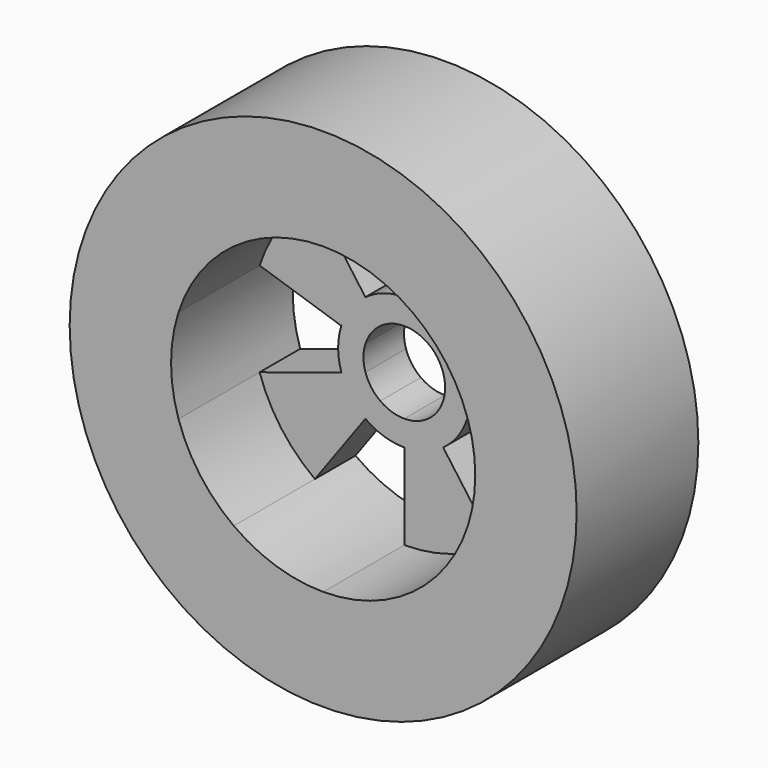
from build123d import *

# Parameters (mm, degrees)
F0_R     = 50
F1_DEPTH = 30
F2_DEPTH = 10


with BuildPart() as f1:
    # F0 (on Front) → F1 (new body)
    with BuildSketch(Plane.XZ):
        Circle(F0_R)
        with BuildLine():
            ThreePointArc((28.5316954889, 9.2705098312), (29.6306502179, 4.6930339512), (30, 0))
            ThreePointArc((30, 0), (29.6306502179, -4.6930339512), (28.5316954889, -9.2705098312))
            ThreePointArc((28.5316954889, -9.2705098312), (24.2705098312, -17.6335575688), (17.6335575688, -24.2705098312))
            ThreePointArc((17.6335575688, -24.2705098312), (9.2705098312, -28.5316954889), (0, -30))
            ThreePointArc((0, -30), (-9.2705098312, -28.5316954889), (-17.6335575688, -24.2705098312))
            ThreePointArc((-17.6335575688, -24.2705098312), (-24.2705098312, -17.6335575688), (-28.5316954889, -9.2705098312))
            ThreePointArc((-28.5316954889, -9.2705098312), (-30, 0), (-28.5316954889, 9.2705098312))
            ThreePointArc((-28.5316954889, 9.2705098312), (-24.2705098312, 17.6335575688), (-17.6335575688, 24.2705098312))
            ThreePointArc((-17.6335575688, 24.2705098312), (-9.2705098312, 28.5316954889), (0, 30))
            ThreePointArc((0, 30), (9.2705098312, 28.5316954889), (17.6335575688, 24.2705098312))
            ThreePointArc((17.6335575688, 24.2705098312), (24.2705098312, 17.6335575688), (28.5316954889, 9.2705098312))
        make_face(mode=Mode.SUBTRACT)
    extrude(amount=F1_DEPTH)

    # F0 (on Front) → F2 (join)
    with BuildSketch(Plane.XZ):
        with BuildLine():
            Line((-7.6705975424, 10.5576717766), (-17.6335575688, 24.2705098312))
            ThreePointArc((-17.6335575688, 24.2705098312), (-24.2705098312, 17.6335575688), (-28.5316954889, 9.2705098312))
            Line((-28.5316954889, 9.2705098312), (-12.4112875377, 4.0326717766))
            ThreePointArc((-12.4112875377, 4.0326717766), (-10.5576717766, 7.6705975424), (-7.6705975424, 10.5576717766))
        make_face()
        with BuildLine():
            Line((-4.731671281, 6.5125868047), (-7.6705975424, 10.5576717766))
            ThreePointArc((-7.6705975424, 10.5576717766), (-10.5576717766, 7.6705975424), (-12.4112875377, 4.0326717766))
            Line((-12.4112875377, 4.0326717766), (-7.6560049562, 2.4875868047))
            ThreePointArc((-7.6560049562, 2.4875868047), (-6.5125868047, 4.731671281), (-4.731671281, 6.5125868047))
        make_face()
        with BuildLine():
            Line((0, 8.05), (0, 13.05))
            ThreePointArc((0, 13.05), (-4.0326717766, 12.4112875377), (-7.6705975424, 10.5576717766))
            Line((-7.6705975424, 10.5576717766), (-4.731671281, 6.5125868047))
            ThreePointArc((-4.731671281, 6.5125868047), (-2.4875868047, 7.6560049562), (0, 8.05))
        make_face()
        with BuildLine():
            Line((4.731671281, 6.5125868047), (7.6705975424, 10.5576717766))
            ThreePointArc((7.6705975424, 10.5576717766), (4.0326717766, 12.4112875377), (0, 13.05))
            Line((0, 13.05), (0, 8.05))
            ThreePointArc((0, 8.05), (2.4875868047, 7.6560049562), (4.731671281, 6.5125868047))
        make_face()
        with BuildLine():
            Line((7.6560049562, 2.4875868047), (12.4112875377, 4.0326717766))
            ThreePointArc((12.4112875377, 4.0326717766), (10.5576717766, 7.6705975424), (7.6705975424, 10.5576717766))
            Line((7.6705975424, 10.5576717766), (4.731671281, 6.5125868047))
            ThreePointArc((4.731671281, 6.5125868047), (6.5125868047, 4.731671281), (7.6560049562, 2.4875868047))
        make_face()
        with BuildLine():
            ThreePointArc((13.05, 0), (12.8893328448, 2.0414697688), (12.4112875377, 4.0326717766))
            Line((12.4112875377, 4.0326717766), (7.6560049562, 2.4875868047))
            ThreePointArc((7.6560049562, 2.4875868047), (7.9508911418, 1.2592974436), (8.05, 0))
            ThreePointArc((8.05, 0), (7.9508911418, -1.2592974436), (7.6560049562, -2.4875868047))
            Line((7.6560049562, -2.4875868047), (12.4112875377, -4.0326717766))
            ThreePointArc((12.4112875377, -4.0326717766), (12.8893328448, -2.0414697688), (13.05, 0))
        make_face()
        with BuildLine():
            ThreePointArc((7.6705975424, -10.5576717766), (10.5576717766, -7.6705975424), (12.4112875377, -4.0326717766))
            Line((12.4112875377, -4.0326717766), (7.6560049562, -2.4875868047))
            ThreePointArc((7.6560049562, -2.4875868047), (6.5125868047, -4.731671281), (4.731671281, -6.5125868047))
            Line((4.731671281, -6.5125868047), (7.6705975424, -10.5576717766))
        make_face()
        with BuildLine():
            ThreePointArc((0, -13.05), (4.0326717766, -12.4112875377), (7.6705975424, -10.5576717766))
            Line((7.6705975424, -10.5576717766), (4.731671281, -6.5125868047))
            ThreePointArc((4.731671281, -6.5125868047), (2.4875868047, -7.6560049562), (0, -8.05))
            Line((0, -8.05), (0, -13.05))
        make_face()
        with BuildLine():
            ThreePointArc((-7.6705975424, -10.5576717766), (-4.0326717766, -12.4112875377), (0, -13.05))
            Line((0, -13.05), (0, -8.05))
            ThreePointArc((0, -8.05), (-2.4875868047, -7.6560049562), (-4.731671281, -6.5125868047))
            Line((-4.731671281, -6.5125868047), (-7.6705975424, -10.5576717766))
        make_face()
        with BuildLine():
            ThreePointArc((-12.4112875377, -4.0326717766), (-10.5576717766, -7.6705975424), (-7.6705975424, -10.5576717766))
            Line((-7.6705975424, -10.5576717766), (-4.731671281, -6.5125868047))
            ThreePointArc((-4.731671281, -6.5125868047), (-6.5125868047, -4.731671281), (-7.6560049562, -2.4875868047))
            Line((-7.6560049562, -2.4875868047), (-12.4112875377, -4.0326717766))
        make_face()
        with BuildLine():
            Line((-7.6560049562, 2.4875868047), (-12.4112875377, 4.0326717766))
            ThreePointArc((-12.4112875377, 4.0326717766), (-13.05, 0), (-12.4112875377, -4.0326717766))
            Line((-12.4112875377, -4.0326717766), (-7.6560049562, -2.4875868047))
            ThreePointArc((-7.6560049562, -2.4875868047), (-8.05, 0), (-7.6560049562, 2.4875868047))
        make_face()
        with BuildLine():
            ThreePointArc((-28.5316954889, -9.2705098312), (-24.2705098312, -17.6335575688), (-17.6335575688, -24.2705098312))
            Line((-17.6335575688, -24.2705098312), (-7.6705975424, -10.5576717766))
            ThreePointArc((-7.6705975424, -10.5576717766), (-10.5576717766, -7.6705975424), (-12.4112875377, -4.0326717766))
            Line((-12.4112875377, -4.0326717766), (-28.5316954889, -9.2705098312))
        make_face()
        with BuildLine():
            ThreePointArc((0, -30), (9.2705098312, -28.5316954889), (17.6335575688, -24.2705098312))
            Line((17.6335575688, -24.2705098312), (7.6705975424, -10.5576717766))
            ThreePointArc((7.6705975424, -10.5576717766), (4.0326717766, -12.4112875377), (0, -13.05))
            Line((0, -13.05), (0, -30))
        make_face()
        with BuildLine():
            ThreePointArc((28.5316954889, -9.2705098312), (29.6306502179, -4.6930339512), (30, 0))
            ThreePointArc((30, 0), (29.6306502179, 4.6930339512), (28.5316954889, 9.2705098312))
            Line((28.5316954889, 9.2705098312), (12.4112875377, 4.0326717766))
            ThreePointArc((12.4112875377, 4.0326717766), (12.8893328448, 2.0414697688), (13.05, 0))
            ThreePointArc((13.05, 0), (12.8893328448, -2.0414697688), (12.4112875377, -4.0326717766))
            Line((12.4112875377, -4.0326717766), (28.5316954889, -9.2705098312))
        make_face()
        with BuildLine():
            Line((7.6705975424, 10.5576717766), (17.6335575688, 24.2705098312))
            ThreePointArc((17.6335575688, 24.2705098312), (9.2705098312, 28.5316954889), (0, 30))
            Line((0, 30), (0, 13.05))
            ThreePointArc((0, 13.05), (4.0326717766, 12.4112875377), (7.6705975424, 10.5576717766))
        make_face()
    extrude(amount=F2_DEPTH)


solid = f1.part
